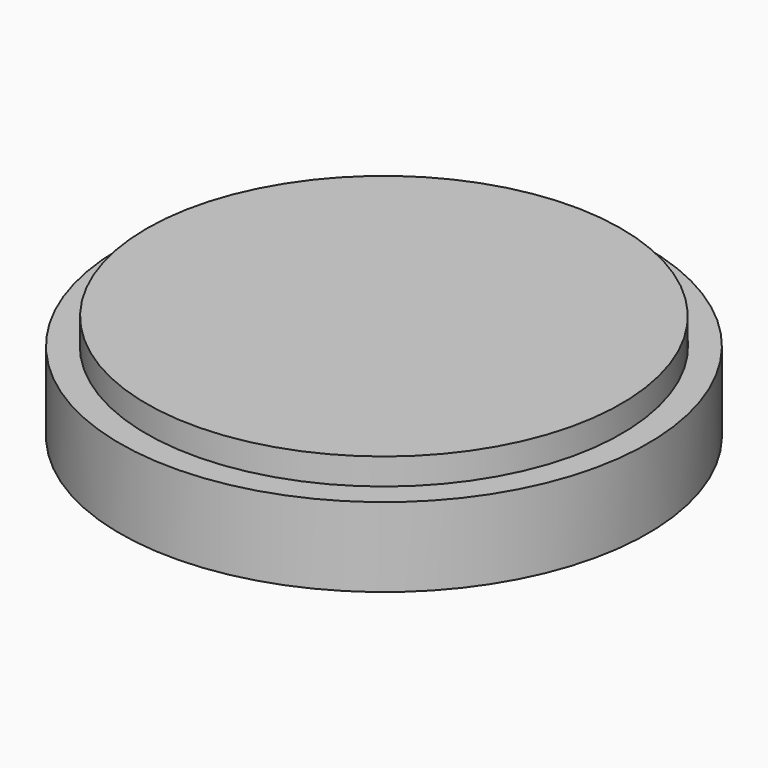
from build123d import *


with BuildPart() as f2:
    # F1 (on face) → F2 (revolve)
    with BuildSketch(Plane.XZ):
        Polygon((0, 3.996843), (-8.990511, 3.996843), (-8.990511, 2.996843), (-8.990511, 1.01), (0, 1.01), align=None)
    revolve(axis=Axis((0, 0, 2.503422), (0, 0, 1)))


with BuildPart() as f3:
    # F0 (on Front) → F3 (revolve)
    with BuildSketch(Plane.XZ):
        Polygon((-10, 0), (0, 0), (0, 1), (-9, 1), (-9, 3), (-10, 3), align=None)
    revolve(axis=Axis((0, 0, 0.5), (0, 0, -1)))


solid = Compound([f2.part, f3.part])
